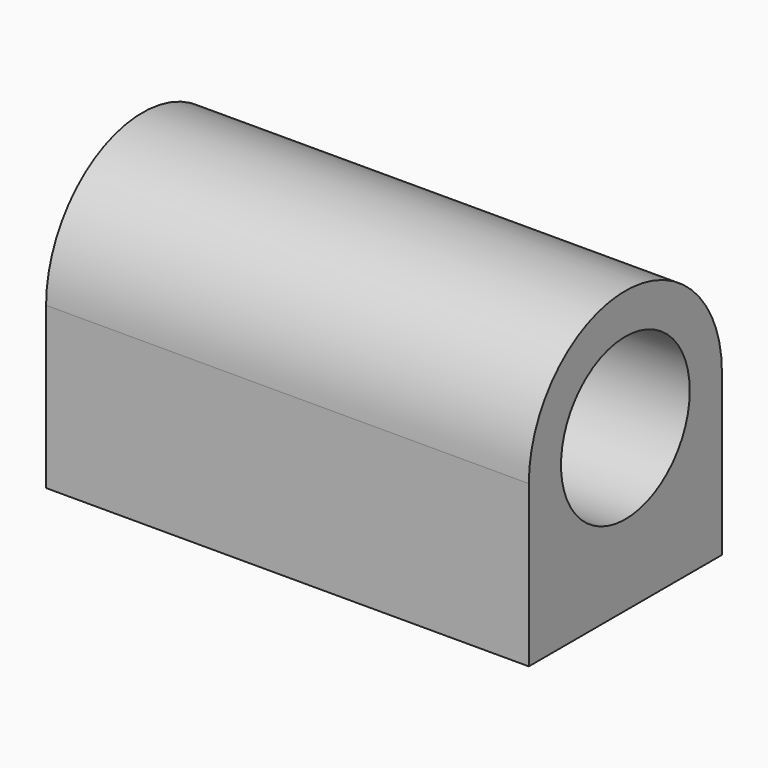
from build123d import *

# Parameters (mm, degrees)
F1_DEPTH = 30
F2_R     = 0.65
F3_DEPTH = 5


with BuildPart() as f1:
    # F0 (on Right) → F1 (new body)
    with BuildSketch(Plane.YZ):
        with BuildLine():
            ThreePointArc((-5, 0), (0, 5), (5, 0))
            Line((5, 0), (7.5, 0))
            ThreePointArc((7.5, 0), (0, 7.5), (-7.5, 0))
            Line((-7.5, 0), (-5, 0))
        make_face()
        with BuildLine():
            Line((7.5, 0), (5, 0))
            ThreePointArc((5, 0), (0, -5), (-5, 0))
            Line((-5, 0), (-7.5, 0))
            Line((-7.5, 0), (-7.5, -10))
            Line((-7.5, -10), (7.5, -10))
            Line((7.5, -10), (7.5, 0))
        make_face()
    extrude(amount=F1_DEPTH)

    # F2 (on face) → F3 (cut)
    with BuildSketch(Plane(origin=(0, 0, -10), x_dir=(1, 0, 0), z_dir=(0, 0, -1))):
        with Locations((27.5, 5)):
            Circle(F2_R)
        with Locations((27.5, -5)):
            Circle(F2_R)
        with Locations((2.5, 5)):
            Circle(F2_R)
        with Locations((2.5, -5)):
            Circle(F2_R)
    extrude(amount=-F3_DEPTH, mode=Mode.SUBTRACT)


solid = f1.part
